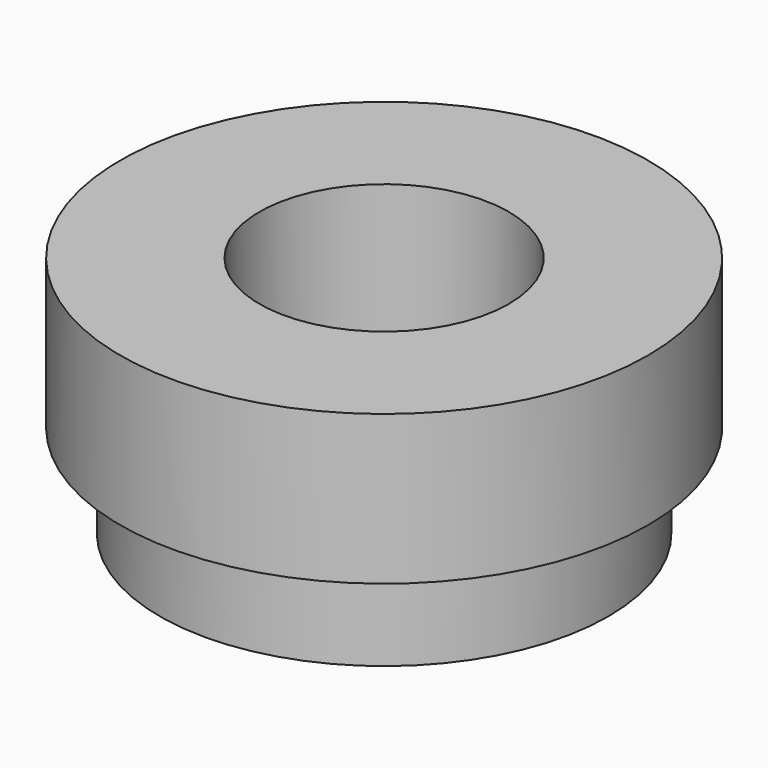
from build123d import *

# Parameters (mm, degrees)
F0_R     = 12.7
F1_DEPTH = 7.1882
F2_R     = 10.795
F3_DEPTH = 4.4831
F4_R     = 6
F5_DEPTH = 25.4
F6_SCALE = 0.5


with BuildPart() as f1:
    # F0 (on Top) → F1 (new body)
    with BuildSketch(Plane.XY):
        Circle(F0_R)
    extrude(amount=F1_DEPTH)

    # F2 (on face) → F3 (join)
    with BuildSketch(Plane.XY):
        Circle(F2_R)
    extrude(amount=-F3_DEPTH)

    # F4 (on face) → F5 (cut)
    with BuildSketch(Plane(origin=(0, 0, -4.4831), x_dir=(1, 0, 0), z_dir=(0, 0, -1))):
        Circle(F4_R)
    extrude(amount=-F5_DEPTH, mode=Mode.SUBTRACT)


with BuildPart() as f1_1:
    # F6: moved
    add(f1.part.scale(F6_SCALE))


solid = f1_1.part
